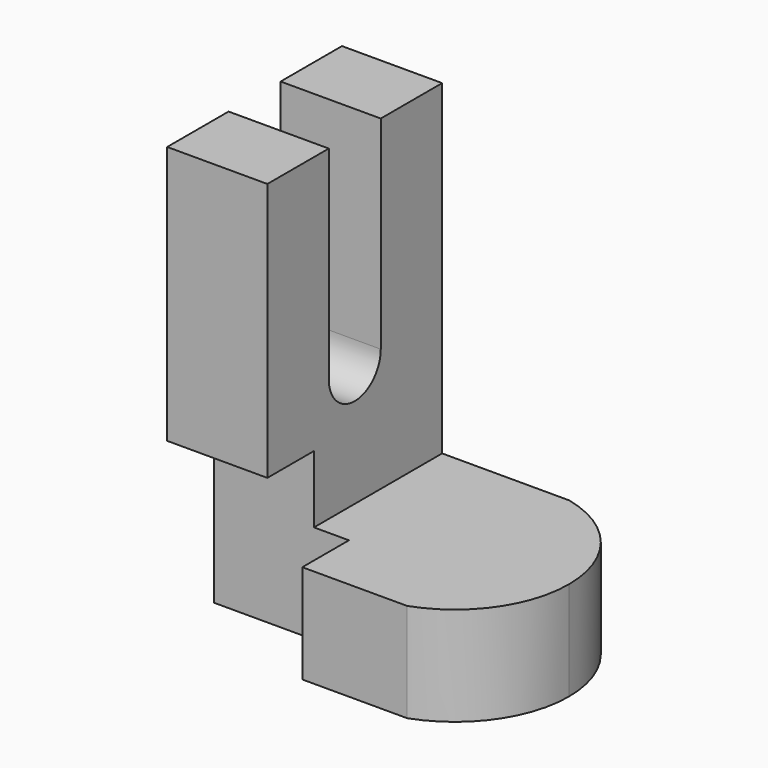
from build123d import *

# Parameters (mm, degrees)
F1_DEPTH = 19.05
F3_DEPTH = 17.2409580479
F5_DEPTH = 25.4
F6_W     = 23.5642232001
F6_H     = 34.1768339276
F7_DEPTH = 10.16


with BuildPart() as f1:
    # F0 (on Front) → F1 (new body, symmetric)
    with BuildSketch(Plane.XZ):
        Polygon((17.4721237272, 74.0977823734), (0, 74.0977823734), (0, 0), (55.0666376948, 0), (55.0666376948, 17.2399580479), (17.4721237272, 17.2399580479), align=None)
    extrude(amount=F1_DEPTH, both=True)

    # F2 (on face) → F3 (cut, through all)
    with BuildSketch(Plane.XY.offset(17.2399580479)):
        with BuildLine():
            ThreePointArc((55.0666376948, -0.3249626733), (51.4285906353, -11.785735895), (41.846567036, -19.05))
            Line((41.846567036, -19.05), (55.0666376948, -19.05))
            Line((55.0666376948, -19.05), (55.0666376948, -0.3249626733))
        make_face()
        with BuildLine():
            ThreePointArc((39.6085269749, 19.05), (50.7285952231, 12.0680027235), (55.0666376948, -0.3249626733))
            Line((55.0666376948, -0.3249626733), (55.0666376948, 19.05))
            Line((55.0666376948, 19.05), (39.6085269749, 19.05))
        make_face()
    extrude(amount=-F3_DEPTH, mode=Mode.SUBTRACT)

    # F4 (on face) → F5 (cut)
    with BuildSketch(Plane.YZ.offset(17.4721237272)):
        with BuildLine():
            Line((5.6702466682, 74.0977823734), (-5.6702466682, 74.0977823734))
            Line((-5.6702466682, 74.0977823734), (-5.6702466682, 38.6781468987))
            ThreePointArc((-5.6702466682, 38.6781468987), (0, 33.0079002306), (5.6702466682, 38.6781468987))
            Line((5.6702466682, 38.6781468987), (5.6702466682, 74.0977823734))
        make_face()
    extrude(amount=-F5_DEPTH, mode=Mode.SUBTRACT)

    # F6 (on face) → F7 (cut)
    with BuildSketch(Plane.XZ.offset(19.05)):
        with Locations((11.7821116, 11.8823200464)):
            Rectangle(F6_W, F6_H)
    extrude(amount=-F7_DEPTH, mode=Mode.SUBTRACT)


solid = f1.part
